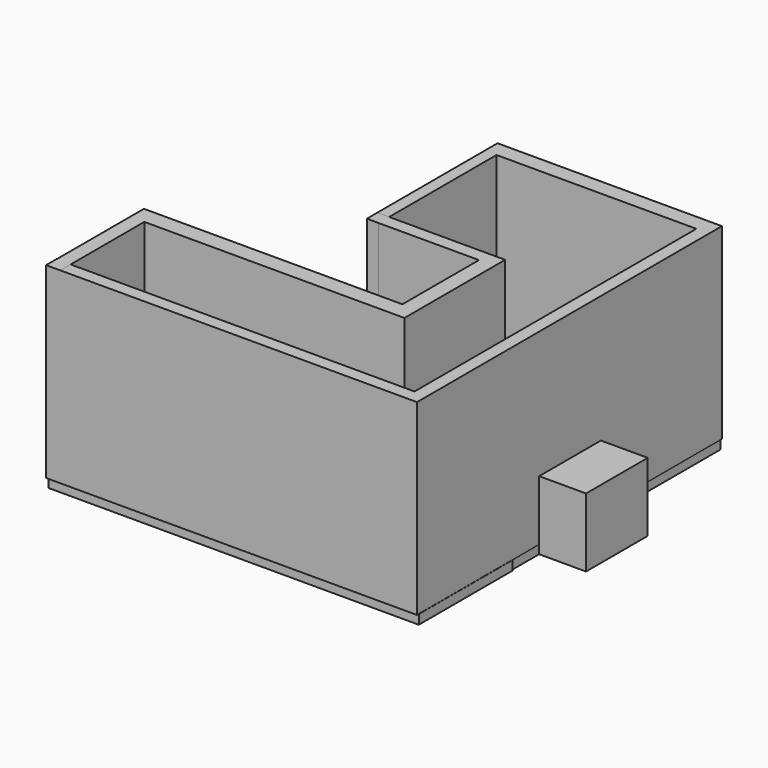
from build123d import *

# Parameters (mm, degrees)
F0_W     = 6.9115534425
F0_H     = 8.6863413453
F0_W_2   = 194.1798776388
F0_H_2   = 6.973400712
F0_W_3   = 108.334004879
F2_DEPTH = 101.6
F1_W     = 7.6293349266
F1_H     = 56.8553954363
F1_W_2   = 132.4961185455
F1_H_2   = 9.2654973269
F1_W_3   = 8.5166245699
F1_H_3   = 51.87946558
F1_W_4   = 60.5260580778
F1_H_4   = 7.1207135916
F3_W     = 59.5295839012
F3_H     = 141.4737850428
F5_DEPTH = 5.08
F4_W     = 120.4475797713
F4_H     = 86.8390146643
F6_W     = 41.8207272887
F6_H     = 4.665106535
F6_H_2   = 32.6037108898
F7_DEPTH = 25.4


with BuildPart() as f2:
    # F0 (on Top) → F2 (new body)
    with BuildSketch(Plane.XY):
        with Locations((100.9606011212, 97.8332646191)):
            Rectangle(F0_W, F0_H)
        Polygon((97.5048243999, 93.4900939465), (97.5048243999, -97.5048393011), (97.5048243999, -104.4782400131), (104.4163778424, -104.4782400131), (104.4163778424, 93.4900939465), align=None)
        with Locations((0.4148855805, -100.9915396571)):
            Rectangle(F0_W_2, F0_H_2)
        Polygon((-10.829180479, 13.5991275311), (-10.829180479, 93.4900939465), (-10.829180479, 102.1764352918), (-17.2371268272, 102.1764352918), (-17.2371268272, 13.5991275311), align=None)
        with Locations((43.3378219604, 97.8332646191)):
            Rectangle(F0_W_3, F0_H)
        with Locations((0.4148855805, -100.9915396571)):
            Rectangle(F0_W_2, F0_H_2)
        Polygon((-10.829180479, 13.5991275311), (-10.829180479, 93.4900939465), (-10.829180479, 102.1764352918), (-17.2371268272, 102.1764352918), (-17.2371268272, 13.5991275311), align=None)
        Polygon((97.5048243999, 93.4900939465), (97.5048243999, -97.5048393011), (97.5048243999, -104.4782400131), (104.4163778424, -104.4782400131), (104.4163778424, 93.4900939465), align=None)
        with Locations((100.9606011212, 97.8332646191)):
            Rectangle(F0_W, F0_H)
        with Locations((43.3378219604, 97.8332646191)):
            Rectangle(F0_W_3, F0_H)
    extrude(amount=F2_DEPTH)

    # F6 (on face) → F7 (join)
    with BuildSketch(Plane.YZ.offset(104.4163778424)):
        with Locations((-0.7636211812, -2.3325532675)):
            Rectangle(F6_W, F6_H)
        with Locations((-0.7636211812, 16.3018554449)):
            Rectangle(F6_W, F6_H_2)
    extrude(amount=F7_DEPTH)


with BuildPart() as f2b:
    # F1 (on Top) → F2, piece 2 (new body)
    with BuildSketch(Plane.XY):
        with Locations((-92.7675515413, -75.9735181928)):
            Rectangle(F1_W, F1_H)
        with Locations((-22.7048248053, -42.9130718112)):
            Rectangle(F1_W_2, F1_H_2)
        with Locations((-92.7675515413, -42.9130718112)):
            Rectangle(F1_W, F1_H_2)
        with Locations((47.8015467525, -12.3405903578)):
            Rectangle(F1_W_3, F1_H_3)
        with Locations((47.8015467525, -42.9130718112)):
            Rectangle(F1_W_3, F1_H_2)
        with Locations((13.2802054286, 17.159499228)):
            Rectangle(F1_W_4, F1_H_4)
        with Locations((47.8015467525, 17.159499228)):
            Rectangle(F1_W_3, F1_H_4)
    extrude(amount=F2_DEPTH)


with BuildPart() as f5:
    # F3 (on Top) → F5 (new body)
    with BuildSketch(Plane.XY):
        with Locations((74.1324219853, 30.9812948108)):
            Rectangle(F3_W, F3_H)
        Polygon((-96.2352901697, -39.7555977106), (-96.2352901697, -103.386759758), (104.5090258121, -103.386759758), (104.5090258121, -39.7555977106), (103.8972139359, -39.7555977106), (44.3676300347, -39.7555977106), align=None)
    extrude(amount=-F5_DEPTH)


with BuildPart() as f5b:
    # F4 (on Top) → F5, piece 2 (new body)
    with BuildSketch(Plane.XY):
        with Locations((43.6597149819, 58.0327985808)):
            Rectangle(F4_W, F4_H)
    extrude(amount=-F5_DEPTH)


solid = Compound([f2.part, f2b.part, f5.part, f5b.part])
